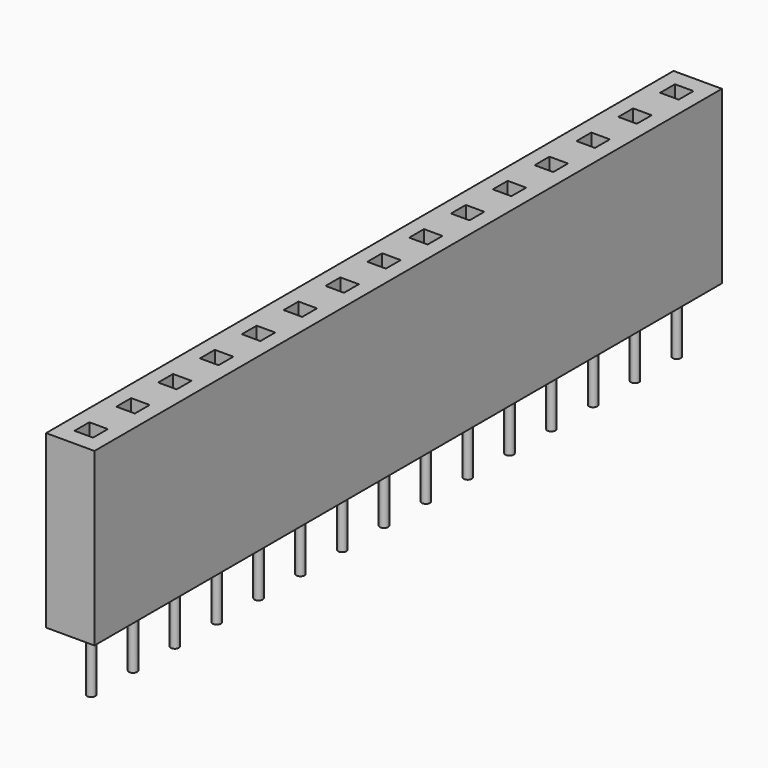
from build123d import *

# Parameters (mm, degrees)
F0_W     = 2.35
F0_H     = 38.1
F0_W_2   = 0.9
F0_H_2   = 0.9
F1_DEPTH = 8.32
F2_R     = 0.2
F3_DEPTH = 3


with BuildPart() as f1:
    # F0 (on Top) → F1 (new body)
    with BuildSketch(Plane.XY):
        with Locations((0, -19.05)):
            Rectangle(F0_W, F0_H)
        with Locations((0, -36.83)):
            Rectangle(F0_W_2, F0_H_2, mode=Mode.SUBTRACT)
        with Locations((0, -34.29)):
            Rectangle(F0_W_2, F0_H_2, mode=Mode.SUBTRACT)
        with Locations((0, -31.75)):
            Rectangle(F0_W_2, F0_H_2, mode=Mode.SUBTRACT)
        with Locations((0, -29.21)):
            Rectangle(F0_W_2, F0_H_2, mode=Mode.SUBTRACT)
        with Locations((0, -26.67)):
            Rectangle(F0_W_2, F0_H_2, mode=Mode.SUBTRACT)
        with Locations((0, -24.13)):
            Rectangle(F0_W_2, F0_H_2, mode=Mode.SUBTRACT)
        with Locations((0, -21.59)):
            Rectangle(F0_W_2, F0_H_2, mode=Mode.SUBTRACT)
        with Locations((0, -19.05)):
            Rectangle(F0_W_2, F0_H_2, mode=Mode.SUBTRACT)
        with Locations((0, -16.51)):
            Rectangle(F0_W_2, F0_H_2, mode=Mode.SUBTRACT)
        with Locations((0, -13.97)):
            Rectangle(F0_W_2, F0_H_2, mode=Mode.SUBTRACT)
        with Locations((0, -11.43)):
            Rectangle(F0_W_2, F0_H_2, mode=Mode.SUBTRACT)
        with Locations((0, -8.89)):
            Rectangle(F0_W_2, F0_H_2, mode=Mode.SUBTRACT)
        with Locations((0, -6.35)):
            Rectangle(F0_W_2, F0_H_2, mode=Mode.SUBTRACT)
        with Locations((0, -3.81)):
            Rectangle(F0_W_2, F0_H_2, mode=Mode.SUBTRACT)
        with Locations((0, -1.27)):
            Rectangle(F0_W_2, F0_H_2, mode=Mode.SUBTRACT)
    extrude(amount=F1_DEPTH)


with BuildPart() as f3:
    # F2 (on face) → F3 (new body)
    with BuildSketch(Plane(origin=(0, 0, 0), x_dir=(1, 0, 0), z_dir=(0, 0, -1))):
        with Locations((0, 36.83)):
            Circle(F2_R)
        with Locations((0, 34.29)):
            Circle(F2_R)
        with Locations((0, 31.75)):
            Circle(F2_R)
        with Locations((0, 29.21)):
            Circle(F2_R)
        with Locations((0, 26.67)):
            Circle(F2_R)
        with Locations((0, 24.13)):
            Circle(F2_R)
        with Locations((0, 21.59)):
            Circle(F2_R)
        with Locations((0, 19.05)):
            Circle(F2_R)
        with Locations((0, 16.51)):
            Circle(F2_R)
        with Locations((0, 13.97)):
            Circle(F2_R)
        with Locations((0, 11.43)):
            Circle(F2_R)
        with Locations((0, 8.89)):
            Circle(F2_R)
        with Locations((0, 6.35)):
            Circle(F2_R)
        with Locations((0, 3.81)):
            Circle(F2_R)
        with Locations((0, 1.27)):
            Circle(F2_R)
    extrude(amount=F3_DEPTH)


solid = Compound([f1.part, f3.part])
